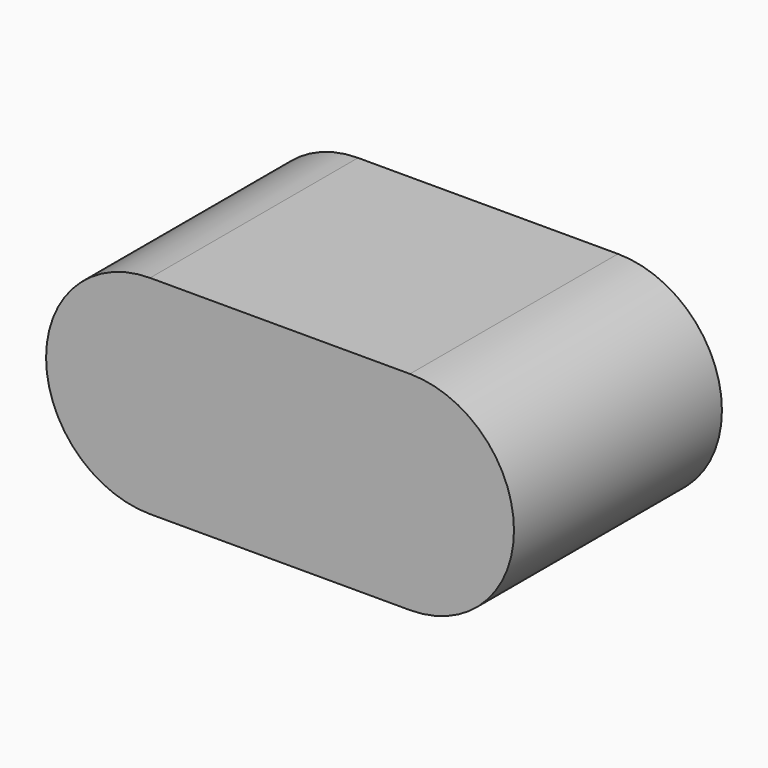
from build123d import *

# Parameters (mm, degrees)
CYLINDER103_R     = 4
CYLINDER103_DEPTH = 10
CYLINDER104_R     = 4
CYLINDER104_DEPTH = 10
BOX069_W          = 10
BOX069_H          = 10
BOX069_DEPTH      = 8


with BuildPart() as obj1:
    # Cylinder103 → Cylinder103 (new body)
    with BuildSketch(Plane(origin=(65, 10, 23.5), x_dir=(1, 0, 0), z_dir=(0, -1, 0))):
        Circle(CYLINDER103_R)
    extrude(amount=CYLINDER103_DEPTH)


with BuildPart() as obj2:
    # Cylinder104 → Cylinder104 (new body)
    with BuildSketch(Plane(origin=(75, 10, 23.5), x_dir=(1, 0, 0), z_dir=(0, -1, 0))):
        Circle(CYLINDER104_R)
    extrude(amount=CYLINDER104_DEPTH)


with BuildPart() as obj3:
    # Box069 → Box069 (new body)
    with BuildSketch(Plane(origin=(65, 0, 19.5), x_dir=(1, 0, 0), z_dir=(0, 0, 1))):
        with Locations((5, 5)):
            Rectangle(BOX069_W, BOX069_H)
    extrude(amount=BOX069_DEPTH)

    # Fusion047: union obj1, obj2
    add(obj1.part)
    add(obj2.part)


solid = obj3.part
